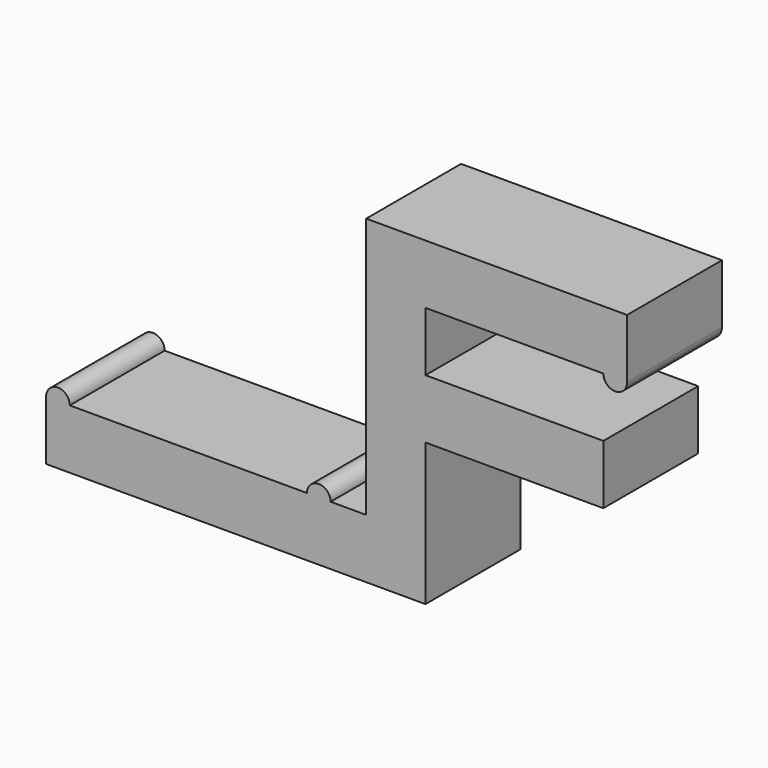
from build123d import *

# Parameters (mm, degrees)
F0_W     = 15
F0_H     = 5
F1_DEPTH = 10


with BuildPart() as f1:
    # F0 (on Front) → F1 (new body)
    with BuildSketch(Plane.XZ):
        Polygon((-32, 0), (0, 0), (0, 5), (-5, 5), (-8, 5), (-10, 5), (-30, 5), (-32, 5), align=None)
        Polygon((-5, 5), (0, 5), (0, 12), (0, 17), (0, 22), (0, 27), (-5, 27), align=None)
        with BuildLine():
            ThreePointArc((-30, 5), (-31, 6), (-32, 5))
            Line((-32, 5), (-30, 5))
        make_face()
        with Locations((7.5, 14.5)):
            Rectangle(F0_W, F0_H)
        with BuildLine():
            Line((-10, 5), (-8, 5))
            ThreePointArc((-8, 5), (-9, 6), (-10, 5))
        make_face()
        Polygon((17, 27), (0, 27), (0, 22), (15, 22), (17, 22), align=None)
        with BuildLine():
            Line((17, 22), (15, 22))
            ThreePointArc((15, 22), (16, 21), (17, 22))
        make_face()
    extrude(amount=F1_DEPTH)


solid = f1.part
